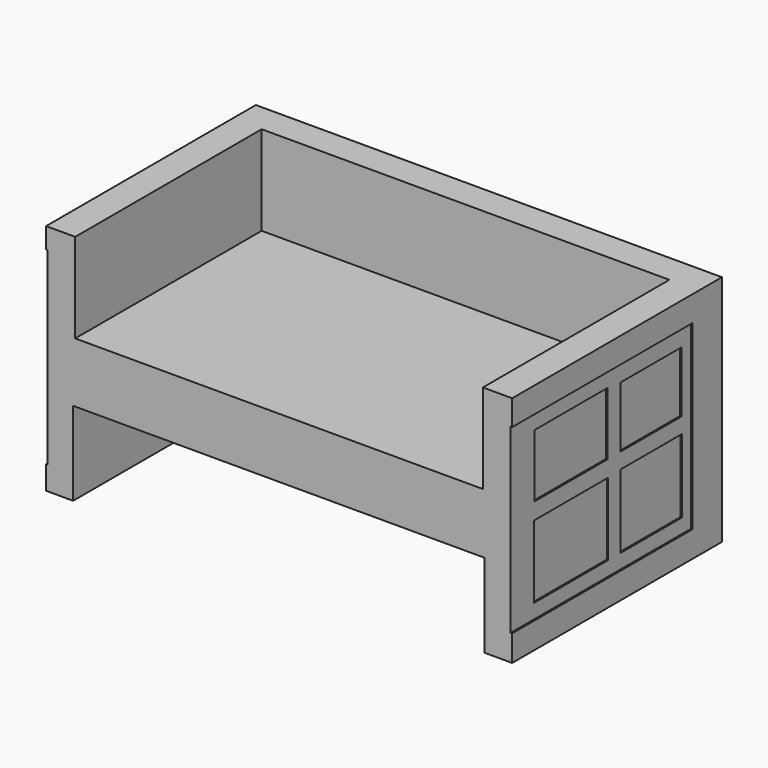
from build123d import *

# Parameters (mm, degrees)
SKETCH_W        = 1600
SKETCH_H        = 800
PAD_DEPTH       = 900
SKETCH001_W     = 1399.489502
SKETCH001_H     = 357.799927
SKETCH001_W_2   = 1411.382736
SKETCH001_H_2   = 386.889557
POCKET_DEPTH    = 800
SKETCH002_W     = 648.389411
SKETCH002_H     = 831.100419
POCKET001_DEPTH = 5
SKETCH003_W     = 623.226656
SKETCH003_H     = 886.54245
POCKET002_DEPTH = 5
SKETCH004_W     = 249.06694
SKETCH004_H     = 318.805694
SKETCH004_W_2   = 215.858154
SKETCH004_H_2   = 313.345032
SKETCH004_W_3   = 252.387802
SKETCH004_H_3   = 262.350571
SKETCH004_W_4   = 209.216248
SKETCH004_H_4   = 262.099701
POCKET003_DEPTH = 5
SKETCH005_W     = 263.345154
SKETCH005_H     = 305.770508
SKETCH005_W_2   = 235.499115
SKETCH005_H_2   = 306.489624
SKETCH005_W_3   = 259.166199
SKETCH005_H_3   = 340.773849
SKETCH005_W_4   = 237.131774
SKETCH005_H_4   = 326.798797
POCKET004_DEPTH = 5


with BuildPart() as part:
    # Sketch → Pad (new body)
    with BuildSketch(Plane.XZ):
        with Locations((800, 400)):
            Rectangle(SKETCH_W, SKETCH_H)
    extrude(amount=PAD_DEPTH)

    # Sketch001 (on Face6 of Pad) → Pocket (cut)
    with BuildSketch(Plane.XZ.offset(900)):
        with Locations((799.744751, 671.889404)):
            Rectangle(SKETCH001_W, SKETCH001_H)
        with Locations((798.594947, 93.649276)):
            Rectangle(SKETCH001_W_2, SKETCH001_H_2)
    extrude(amount=-POCKET_DEPTH, mode=Mode.SUBTRACT)

    # Sketch002 (on Face8 of Pocket) → Pocket001 (cut)
    with BuildSketch(Plane(origin=(0, 0, 0), x_dir=(0, 0, -1), z_dir=(-1, 0, 0))):
        with Locations((-404.729881, 532.556495)):
            Rectangle(SKETCH002_W, SKETCH002_H)
    extrude(amount=-POCKET001_DEPTH, mode=Mode.SUBTRACT)

    # Sketch003 (on Face3 of Pocket001) → Pocket002 (cut)
    with BuildSketch(Plane(origin=(1600, 0, 0), x_dir=(0, 0, 1), z_dir=(1, 0, 0))):
        with Locations((401.204392, 568.800241)):
            Rectangle(SKETCH003_W, SKETCH003_H)
    extrude(amount=-POCKET002_DEPTH, mode=Mode.SUBTRACT)

    # Sketch004 (on Face14 of Pocket002) → Pocket003 (cut)
    with BuildSketch(Plane(origin=(1595, 0, 0), x_dir=(0, 0, 1), z_dir=(1, 0, 0))):
        with Locations((263.843483, 640.951462)):
            Rectangle(SKETCH004_W, SKETCH004_H)
        with Locations((552.92334, 641.542023)):
            Rectangle(SKETCH004_W_2, SKETCH004_H_2)
        with Locations((265.503914, 297.23899)):
            Rectangle(SKETCH004_W_3, SKETCH004_H_3)
        with Locations((550.027313, 297.826859)):
            Rectangle(SKETCH004_W_4, SKETCH004_H_4)
    extrude(amount=-POCKET003_DEPTH, mode=Mode.SUBTRACT)

    # Sketch005 (on Face19 of Pocket003) → Pocket004 (cut)
    with BuildSketch(Plane(origin=(5, 0, 0), x_dir=(0, 0, -1), z_dir=(-1, 0, 0))):
        with Locations((-563.361725, 704.925354)):
            Rectangle(SKETCH005_W, SKETCH005_H)
        with Locations((-248.631547, 700.386841)):
            Rectangle(SKETCH005_W_2, SKETCH005_H_2)
        with Locations((-561.272247, 326.141334)):
            Rectangle(SKETCH005_W_3, SKETCH005_H_3)
        with Locations((-249.447876, 323.332688)):
            Rectangle(SKETCH005_W_4, SKETCH005_H_4)
    extrude(amount=-POCKET004_DEPTH, mode=Mode.SUBTRACT)


solid = part.part
